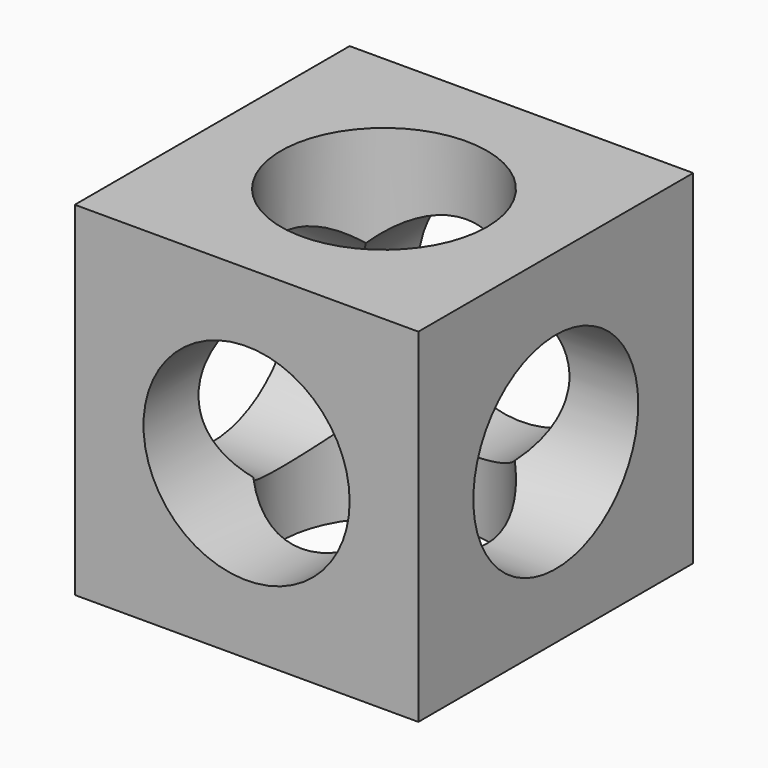
from build123d import *

# Parameters (mm, degrees)
F0_W     = 127
F0_H     = 127
F1_DEPTH = 127
F2_R     = 38.1
F3_DEPTH = 127.001
F4_R     = 38.1
F5_DEPTH = 127.001
F6_R     = 38.1
F7_DEPTH = 127.001


with BuildPart() as f1:
    # F0 (on Top) → F1 (new body)
    with BuildSketch(Plane.XY):
        with Locations((6.54018, 6.704748)):
            Rectangle(F0_W, F0_H)
    extrude(amount=F1_DEPTH)

    # F2 (on face) → F3 (cut, through all)
    with BuildSketch(Plane.XY.offset(127)):
        with Locations((6.54018, 6.704748)):
            Circle(F2_R)
    extrude(amount=-F3_DEPTH, mode=Mode.SUBTRACT)

    # F4 (on face) → F5 (cut, through all)
    with BuildSketch(Plane.YZ.offset(70.04018)):
        with Locations((6.704748, 62.066816)):
            Circle(F4_R)
    extrude(amount=-F5_DEPTH, mode=Mode.SUBTRACT)

    # F6 (on face) → F7 (cut, through all)
    with BuildSketch(Plane.XZ.offset(56.795252)):
        with Locations((6.54018, 63.5)):
            Circle(F6_R)
    extrude(amount=-F7_DEPTH, mode=Mode.SUBTRACT)


solid = f1.part
